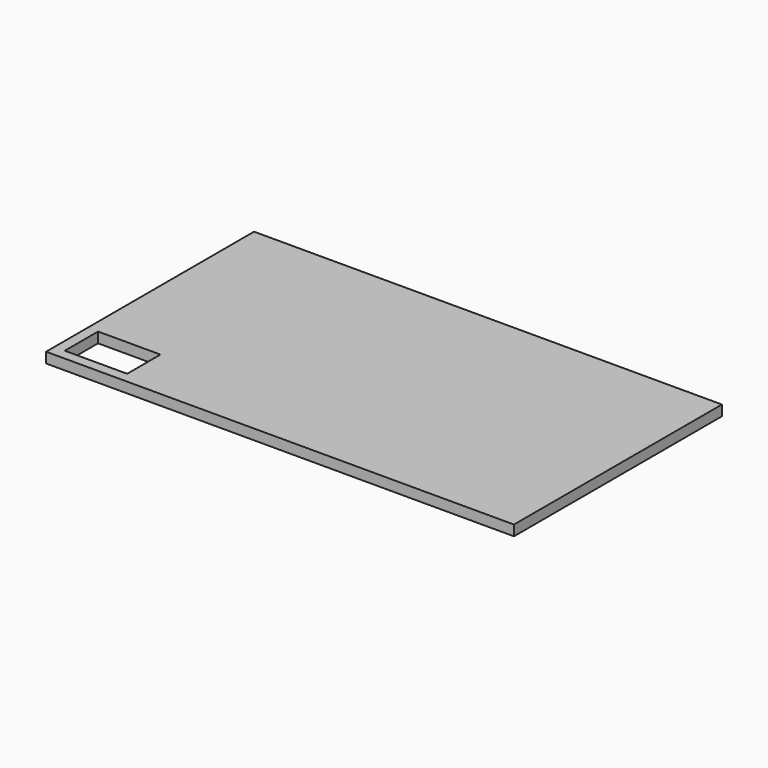
from build123d import *

# Parameters (mm, degrees)
BOX036_W     = 6
BOX036_H     = 4
BOX036_DEPTH = 1
BOX027_W     = 45
BOX027_H     = 25
BOX027_DEPTH = 1


with BuildPart() as box036:
    # Box036 → Box036 (new body)
    with BuildSketch(Plane(origin=(1, 1, 10), x_dir=(1, 0, 0), z_dir=(0, 0, 1))):
        with Locations((3, 2)):
            Rectangle(BOX036_W, BOX036_H)
    extrude(amount=BOX036_DEPTH)


with BuildPart() as cut038:
    # Box027 → Box027 (new body)
    with BuildSketch(Plane.XY.offset(10)):
        with Locations((22.5, 12.5)):
            Rectangle(BOX027_W, BOX027_H)
    extrude(amount=BOX027_DEPTH)

    # Cut038: cut Box036
    add(box036.part, mode=Mode.SUBTRACT)


solid = cut038.part
